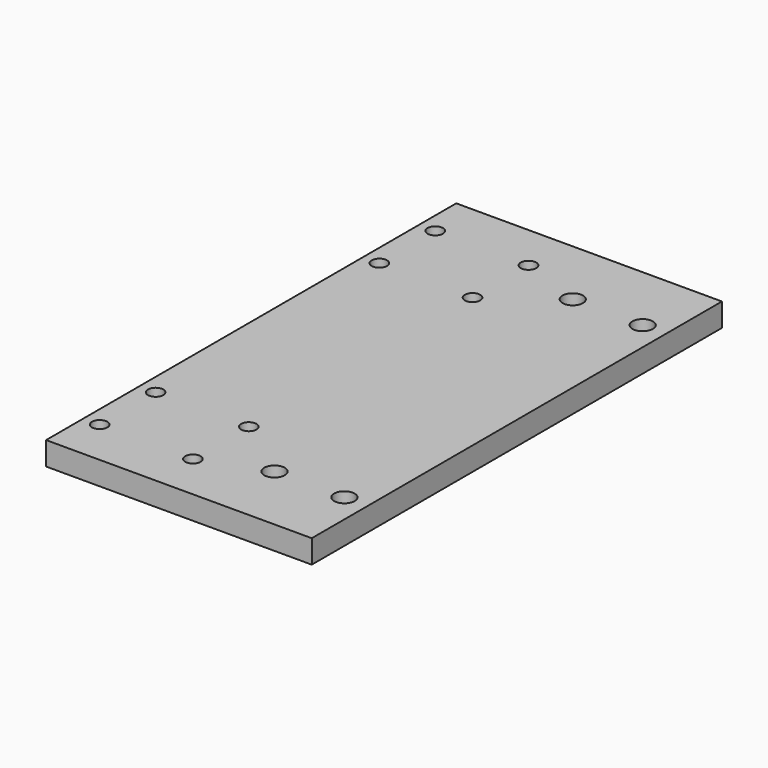
from build123d import *

# Parameters (mm, degrees)
F0_W     = 57
F0_H     = 110
F1_DEPTH = 5
F2_D     = 3.3
F3_D     = 4.4


with BuildPart() as f1:
    # F0 (on Top) → F1 (new body)
    with BuildSketch(Plane.XY):
        with Locations((15, 0)):
            Rectangle(F0_W, F0_H)
    extrude(amount=F1_DEPTH)

    # F2 (through all)
    with Locations(Plane(origin=(0, 0, 0), x_dir=(1, 0, 0), z_dir=(0, 0, -1))):
        with Locations((-10, -45), (-10, -30), (10, -30), (10, -45), (-10, 30), (-10, 45), (10, 45), (10, 30)):
            Hole(F2_D / 2)

    # F3 (through all)
    with Locations(Plane(origin=(0, 0, 0), x_dir=(1, 0, 0), z_dir=(0, 0, -1))):
        with Locations((23.5, -40), (38.5, -40), (23.5, 40), (38.5, 40)):
            Hole(F3_D / 2)


solid = f1.part
